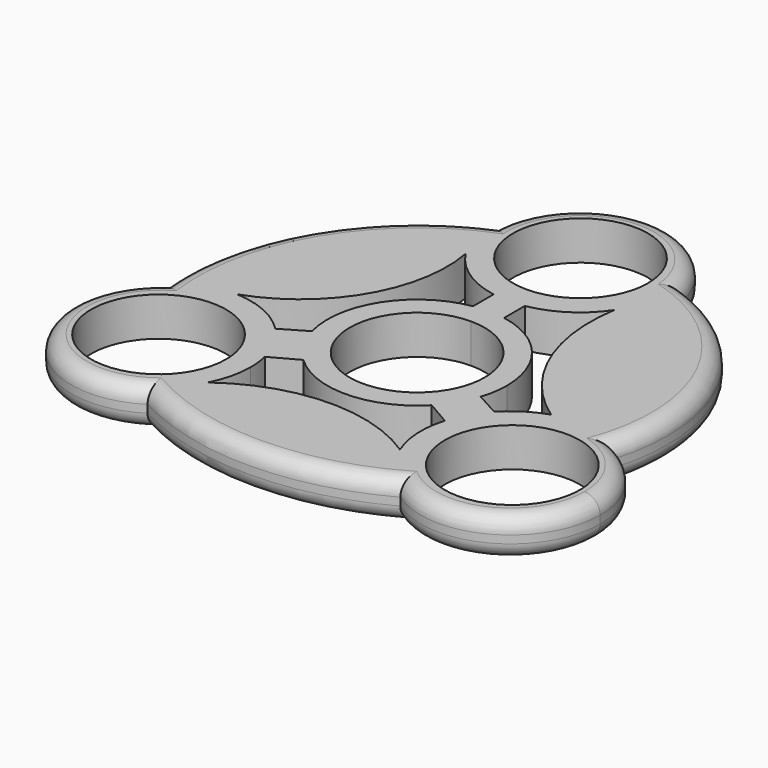
from build123d import *

# Parameters (mm, degrees)
F1_DEPTH = 6.35
F2_R     = 2.54


with BuildPart() as f1:
    # F0 (on Top) → F1 (new body)
    with BuildSketch(Plane.XY):
        with BuildLine():
            ThreePointArc((-27.8704423491, -1.7660339676), (-15.0562248636, 8.7632802548), (-12.1663881705, 25.094828609))
            ThreePointArc((-12.1663881705, 25.094828609), (-14.0152610269, 29.3726751227), (-14.4224824657, 34.0151391595))
            ThreePointArc((-14.4224824657, 34.0151391595), (-32.0454449273, 18.3928433513), (-37.2488283994, -4.5756074603))
            ThreePointArc((-37.2488283994, -4.5756074603), (-32.8020647021, -2.3615890522), (-27.8704423491, -1.7660339676))
        make_face()
        with BuildLine():
            ThreePointArc((-14.394020426, -13.0069978615), (-15.0069418895, -11.0378852832), (-15.8911075513, -9.1747352225))
            ThreePointArc((-15.8911075513, -9.1747352225), (-16.934626212, -7.5787607243), (-18.1771787961, -6.1323413971))
            ThreePointArc((-18.1771787961, -6.1323413971), (-22.6124121745, -3.0358774855), (-27.8704423491, -1.7660339676))
            ThreePointArc((-27.8704423491, -1.7660339676), (-32.8020647021, -2.3615890522), (-37.2488283994, -4.5756074603))
            ThreePointArc((-37.2488283994, -4.5756074603), (-40.7024584019, -24.543503969), (-20.8778188993, -28.7420894177))
            ThreePointArc((-20.8778188993, -28.7420894177), (-17.8698503278, -26.2486838315), (-15.6305387893, -23.047054531))
            ThreePointArc((-15.6305387893, -23.047054531), (-14.4177546638, -19.7968290443), (-14.0057446998, -16.3522595736))
            ThreePointArc((-14.0057446998, -16.3522595736), (-14.1031383669, -14.6683998733), (-14.394020426, -13.0069978615))
        make_face()
        with BuildLine():
            ThreePointArc((-17.8025408519, -16.6207831353), (-39.3992190166, -19.4640397553), (-19.2743187786, -11.1280331353))
            ThreePointArc((-19.2743187786, -11.1280331353), (-18.1768626872, -13.7775265153), (-17.8025408519, -16.6207831353))
        make_face(mode=Mode.SUBTRACT)
        with BuildLine():
            ThreePointArc((-10.030850688, -10.6154632247), (-11.4599263482, -9.0540661083), (-12.6483010223, -7.3025))
            Line((-12.6483010223, -7.3025), (-15.8911075513, -9.1747352225))
            ThreePointArc((-15.8911075513, -9.1747352225), (-15.0069418895, -11.0378852832), (-14.394020426, -13.0069978615))
            Line((-14.394020426, -13.0069978615), (-10.030850688, -10.6154632247))
        make_face()
        with BuildLine():
            Line((-15.8911075513, -9.1747352225), (-12.6483010223, -7.3025))
            ThreePointArc((-12.6483010223, -7.3025), (-13.4985896344, -5.5762086476), (-14.1145376702, -3.7531122227))
            Line((-14.1145376702, -3.7531122227), (-18.1771787961, -6.1323413971))
            ThreePointArc((-18.1771787961, -6.1323413971), (-16.934626212, -7.5787607243), (-15.8911075513, -9.1747352225))
        make_face()
        with BuildLine():
            ThreePointArc((-2.4186340525, 18.5753247649), (-1.2140207864, 18.4120258674), (0, 18.3494704449))
            ThreePointArc((0, 18.3494704449), (1.3414384071, 18.3979404445), (2.6727611505, 18.5693641709))
            ThreePointArc((2.6727611505, 18.5693641709), (8.1035191506, 20.7083341934), (12.2630008767, 24.8030914491))
            ThreePointArc((12.2630008767, 24.8030914491), (14.1136082913, 28.693094969), (14.7489001499, 32.953761518))
            ThreePointArc((14.7489001499, 32.953761518), (14.6779054688, 34.3920641245), (14.4656116339, 35.8163835971))
            ThreePointArc((14.4656116339, 35.8163835971), (-0.7649927875, 47.5304531395), (-14.4224824657, 34.0151391595))
            ThreePointArc((-14.4224824657, 34.0151391595), (-14.0152610269, 29.3726751227), (-12.1663881705, 25.094828609))
            ThreePointArc((-12.1663881705, 25.094828609), (-7.975594603, 20.8137520469), (-2.4186340525, 18.5753247649))
        make_face()
        with BuildLine():
            ThreePointArc((10.9855, 33.2415662706), (7.7679215447, 25.4736447259), (0, 22.2560662706))
            ThreePointArc((0, 22.2560662706), (-7.7679215447, 41.0094878153), (10.9855, 33.2415662706))
        make_face(mode=Mode.SUBTRACT)
        with BuildLine():
            Line((0, 18.3494704449), (0, 14.605))
            ThreePointArc((0, 14.605), (1.3420586494, 14.5432081599), (2.6727611505, 14.3583555059))
            Line((2.6727611505, 14.3583555059), (2.6727611505, 18.5693641709))
            ThreePointArc((2.6727611505, 18.5693641709), (1.3414384071, 18.3979404445), (0, 18.3494704449))
        make_face()
        with BuildLine():
            ThreePointArc((-2.4186340525, 14.4033410818), (-1.2135131849, 14.554497956), (0, 14.605))
            Line((0, 14.605), (0, 18.3494704449))
            ThreePointArc((0, 18.3494704449), (-1.2140207864, 18.4120258674), (-2.4186340525, 18.5753247649))
            Line((-2.4186340525, 18.5753247649), (-2.4186340525, 14.4033410818))
        make_face()
        with BuildLine():
            ThreePointArc((-9.5137220733, -5.49275), (-9.5137220733, 5.49275), (0, 10.9855))
            Line((0, 10.9855), (0, 14.605))
            ThreePointArc((0, 14.605), (-1.2135131849, 14.554497956), (-2.4186340525, 14.4033410818))
            ThreePointArc((-2.4186340525, 14.4033410818), (-12.2780552594, 7.9091961694), (-14.1145376702, -3.7531122227))
            ThreePointArc((-14.1145376702, -3.7531122227), (-13.4985896344, -5.5762086476), (-12.6483010223, -7.3025))
            Line((-12.6483010223, -7.3025), (-9.5137220733, -5.49275))
        make_face()
        with BuildLine():
            ThreePointArc((0, 10.9855), (7.7679215447, 7.7679215447), (10.9855, 0))
            ThreePointArc((10.9855, 0), (10.6111781647, -2.84325662), (9.5137220733, -5.49275))
            Line((9.5137220733, -5.49275), (12.6483010223, -7.3025))
            ThreePointArc((12.6483010223, -7.3025), (13.3565897568, -5.9082599018), (13.9117436365, -4.4462809168))
            ThreePointArc((13.9117436365, -4.4462809168), (14.4306451833, -2.2500010209), (14.605, 0))
            ThreePointArc((14.605, 0), (11.2325798818, 9.3346223383), (2.6727611505, 14.3583555059))
            ThreePointArc((2.6727611505, 14.3583555059), (1.3420586494, 14.5432081599), (0, 14.605))
            Line((0, 14.605), (0, 10.9855))
        make_face()
        with BuildLine():
            Line((12.6483010223, -7.3025), (9.5137220733, -5.49275))
            ThreePointArc((9.5137220733, -5.49275), (0, -10.9855), (-9.5137220733, -5.49275))
            Line((-9.5137220733, -5.49275), (-12.6483010223, -7.3025))
            ThreePointArc((-12.6483010223, -7.3025), (-11.4599263482, -9.0540661083), (-10.030850688, -10.6154632247))
            ThreePointArc((-10.030850688, -10.6154632247), (0.3269182096, -14.6013406742), (10.4959127367, -10.1558771568))
            ThreePointArc((10.4959127367, -10.1558771568), (11.6597211772, -8.7952786806), (12.6483010223, -7.3025))
        make_face()
        with BuildLine():
            ThreePointArc((20.168744805, -28.6201360441), (17.1144717419, -25.7900631282), (14.9829399212, -22.2131274632))
            ThreePointArc((14.9829399212, -22.2131274632), (-0.4556750335, -17.7889352), (-15.6305387893, -23.047054531))
            ThreePointArc((-15.6305387893, -23.047054531), (-17.8698503278, -26.2486838315), (-20.8778188993, -28.7420894177))
            ThreePointArc((-20.8778188993, -28.7420894177), (-0.3392650688, -33.821292236), (20.168744805, -28.6201360441))
        make_face()
        with BuildLine():
            Line((15.8911075513, -9.1747352225), (12.6483010223, -7.3025))
            ThreePointArc((12.6483010223, -7.3025), (11.6597211772, -8.7952786806), (10.4959127367, -10.1558771568))
            Line((10.4959127367, -10.1558771568), (14.4650589394, -12.4474647854))
            ThreePointArc((14.4650589394, -12.4474647854), (15.0777121394, -10.7673646223), (15.8911075513, -9.1747352225))
        make_face()
        with BuildLine():
            ThreePointArc((13.9117436365, -4.4462809168), (13.3565897568, -5.9082599018), (12.6483010223, -7.3025))
            Line((12.6483010223, -7.3025), (15.8911075513, -9.1747352225))
            ThreePointArc((15.8911075513, -9.1747352225), (16.7887531153, -7.8306293854), (17.8294218622, -6.5939416241))
            Line((17.8294218622, -6.5939416241), (13.9117436365, -4.4462809168))
        make_face()
        with BuildLine():
            ThreePointArc((17.8294218622, -6.5939416241), (16.7887531153, -7.8306293854), (15.8911075513, -9.1747352225))
            ThreePointArc((15.8911075513, -9.1747352225), (15.0777121394, -10.7673646223), (14.4650589394, -12.4474647854))
            ThreePointArc((14.4650589394, -12.4474647854), (13.8823379122, -17.3749301146), (14.9829399212, -22.2131274632))
            ThreePointArc((14.9829399212, -22.2131274632), (17.1144717419, -25.7900631282), (20.168744805, -28.6201360441))
            ThreePointArc((20.168744805, -28.6201360441), (35.2533119014, -29.5340146889), (43.0718445499, -16.6015019444))
            ThreePointArc((43.0718445499, -16.6015019444), (40.8231373132, -8.8151000701), (34.7694749302, -3.4264165447))
            ThreePointArc((34.7694749302, -3.4264165447), (29.4379938764, -2.0288256636), (23.9682067145, -2.7066006268))
            ThreePointArc((23.9682067145, -2.7066006268), (20.6532066618, -4.2624141356), (17.8294218622, -6.5939416241))
        make_face()
        with BuildLine():
            ThreePointArc((39.7735408519, -16.6207831353), (25.9447842319, -27.2319613), (19.2743187786, -11.1280331353))
            ThreePointArc((19.2743187786, -11.1280331353), (31.6312974719, -6.0096049706), (39.7735408519, -16.6207831353))
        make_face(mode=Mode.SUBTRACT)
        with BuildLine():
            ThreePointArc((14.7489001499, 32.953761518), (14.1136082913, 28.693094969), (12.2630008767, 24.8030914491))
            ThreePointArc((12.2630008767, 24.8030914491), (14.1339726262, 9.3540856845), (23.9682067145, -2.7066006268))
            ThreePointArc((23.9682067145, -2.7066006268), (29.4379938764, -2.0288256636), (34.7694749302, -3.4264165447))
            ThreePointArc((34.7694749302, -3.4264165447), (32.5760092524, 20.3126205074), (14.4656116339, 35.8163835971))
            ThreePointArc((14.4656116339, 35.8163835971), (14.6779054688, 34.3920641245), (14.7489001499, 32.953761518))
        make_face()
    extrude(amount=F1_DEPTH)

    # F2
    f2_edges = [f1.edges().sort_by_distance(p)[0] for p in [
        (-32.045445, 18.392843, 6.35),
        (-40.702458, -24.543504, 6.35),
        (-0.339265, -33.821292, 6.35),
        (41.103155, -23.92473, 6.35),
        (32.576009, 20.312621, 6.35),
        (-0.764993, 47.530453, 6.35),
        (41.103155, -23.92473, 0),
        (-0.339265, -33.821292, 0),
        (-32.045445, 18.392843, 0),
        (-0.764993, 47.530453, 0),
        (32.576009, 20.312621, 0),
        (-40.702458, -24.543504, 0),
    ]]
    fillet(f2_edges, radius=F2_R)


solid = f1.part
